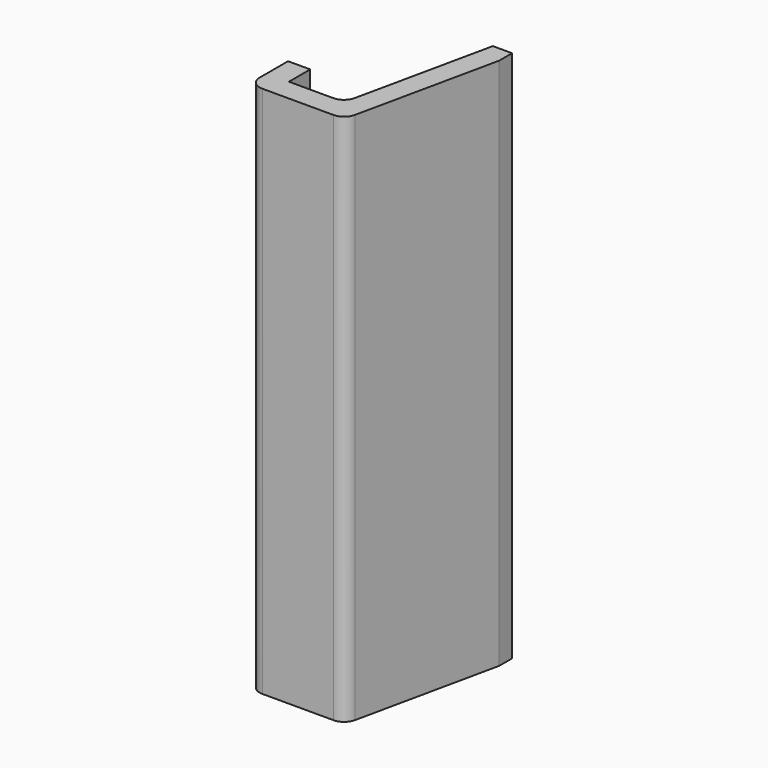
from build123d import *

# Parameters (mm, degrees)
F1_DEPTH = 120


with BuildPart() as f1:
    # F0 (on Top) → F1 (new body)
    with BuildSketch(Plane.XY):
        with BuildLine():
            Line((-26.644639, 0), (-25.606856, 0))
            Line((-25.606856, 0), (-10.606856, 0))
            ThreePointArc((-10.606856, 0), (-8.722037, 0.666022), (-7.674104, 2.368363))
            Line((-7.674104, 2.368363), (-0.782158, 34.368363))
            Line((-0.782158, 34.368363), (-0.782158, 38))
            Line((-0.782158, 38), (-5.11465, 38))
            Line((-5.11465, 38), (-11.711887, 7.368363))
            ThreePointArc((-11.711887, 7.368363), (-12.75982, 5.666022), (-14.644639, 5))
            Line((-14.644639, 5), (-24.644639, 5))
            Line((-24.644639, 5), (-24.644639, 11))
            Line((-24.644639, 11), (-29.644639, 11))
            Line((-29.644639, 11), (-29.644639, 3))
            ThreePointArc((-29.644639, 3), (-28.76596, 0.87868), (-26.644639, 0))
        make_face()
    extrude(amount=F1_DEPTH)


solid = f1.part
